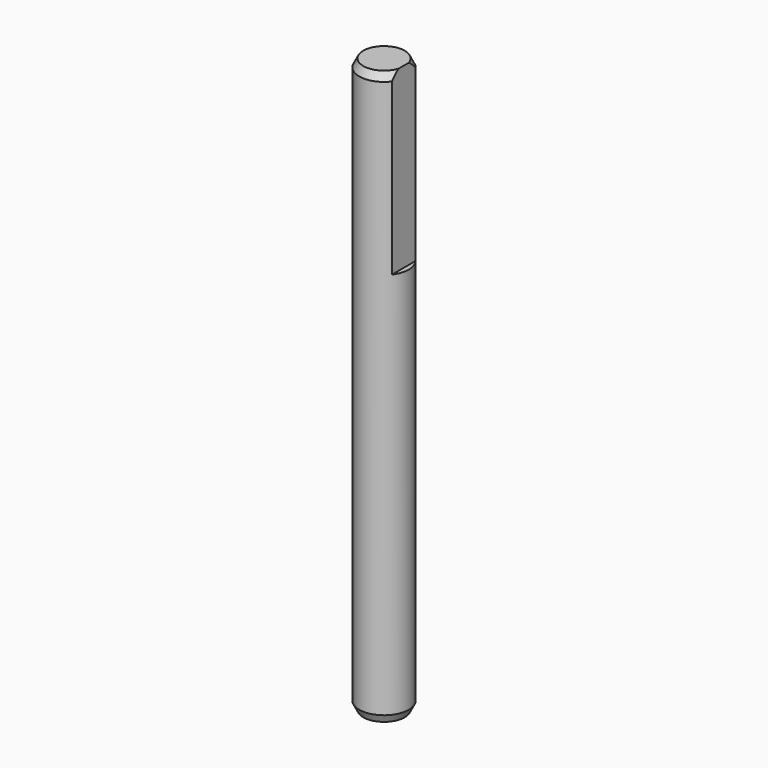
from build123d import *

# Parameters (mm, degrees)
SKETCH012_R      = 2.5
PAD006_DEPTH     = 58
POCKET003_DEPTH  = 18
CHAMFER002_SIZE2 = 0.4
CHAMFER002_SIZE  = 0.8


with BuildPart() as part:
    # Sketch012 → Pad006 (new body)
    with BuildSketch(Plane.XY):
        Circle(SKETCH012_R)
    extrude(amount=PAD006_DEPTH)

    # Sketch013 (on Face3 of Pad006) → Pocket003 (cut)
    with BuildSketch(Plane.XY.offset(58)):
        with BuildLine():
            ThreePointArc((2, -1.5), (2.5, 0), (2, 1.5))
            Line((2, 1.5), (2, -1.5))
        make_face()
    extrude(amount=-POCKET003_DEPTH, mode=Mode.SUBTRACT)

    # Chamfer002
    chamfer002_edges = [part.edges().sort_by_distance(p)[0] for p in [
        (-2.5, 0, 58),
        (-2.5, 0, 0),
    ]]
    chamfer002_side = part.faces().sort_by_distance((-2.5, 0, 29))[0]
    chamfer(chamfer002_edges, length=CHAMFER002_SIZE, length2=CHAMFER002_SIZE2, reference=chamfer002_side)


with BuildPart() as part_1:
    # Body003 placement: moved
    add(part.part.moved(Location((0, 0, 2.8))))


solid = part_1.part
